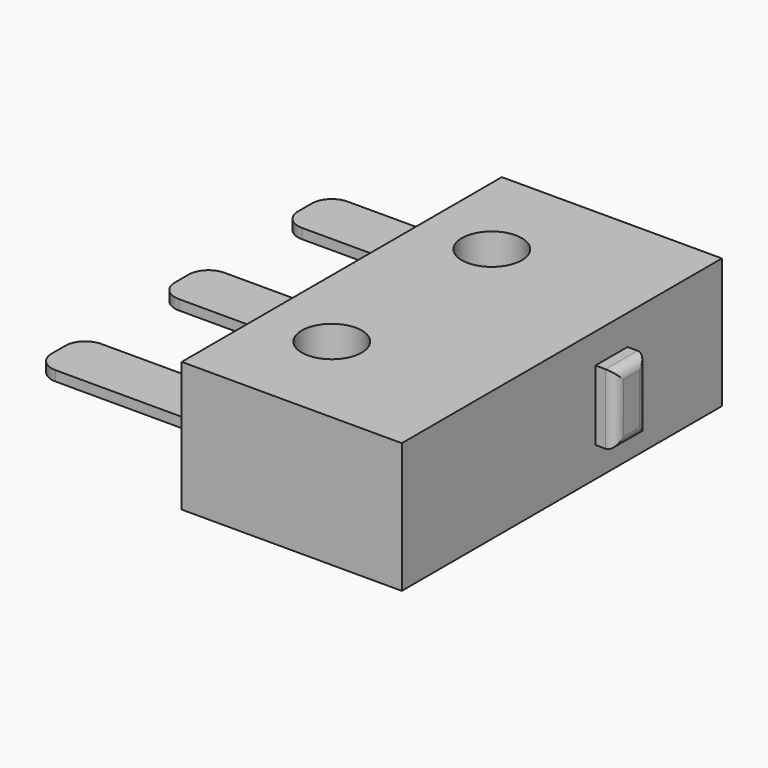
from build123d import *

# Parameters (mm, degrees)
SKETCH_W     = 11
SKETCH_H     = 20
PAD_DEPTH    = 6.5
SKETCH001_W  = 2.85
SKETCH001_H  = 0.5
PAD001_DEPTH = 8
FILLET_R     = 1
SKETCH002_W  = 2
SKETCH002_H  = 3.5
PAD002_DEPTH = 1
FILLET001_R  = 0.5
SKETCH003_R  = 1.5
POCKET_DEPTH = 6.501


with BuildPart() as part:
    # Sketch → Pad (new body)
    with BuildSketch(Plane.XY):
        Rectangle(SKETCH_W, SKETCH_H)
    extrude(amount=PAD_DEPTH)

    # Sketch001 → Pad001 (new body)
    with BuildSketch(Plane(origin=(-5.5, 0, 0), x_dir=(0, -1, 0), z_dir=(-1, 0, 0))):
        with Locations((-7.7, 3.25)):
            Rectangle(SKETCH001_W, SKETCH001_H)
        with Locations((0, 3.25)):
            Rectangle(SKETCH001_W, SKETCH001_H)
        with Locations((7.7, 3.25)):
            Rectangle(SKETCH001_W, SKETCH001_H)
    extrude(amount=PAD001_DEPTH)

    # Fillet
    fillet_edges = [part.edges().sort_by_distance(p)[0] for p in [
        (-13.5, -6.275, 3.25),
        (-13.5, -9.125, 3.25),
        (-13.5, -1.425, 3.25),
        (-13.5, 1.425, 3.25),
        (-13.5, 6.275, 3.25),
        (-13.5, 9.125, 3.25),
    ]]
    fillet(fillet_edges, radius=FILLET_R)

    # Sketch002 → Pad002 (new body)
    with BuildSketch(Plane.YZ.offset(5.5)):
        with Locations((3.1, 3.25)):
            Rectangle(SKETCH002_W, SKETCH002_H)
    extrude(amount=PAD002_DEPTH)

    # Fillet001
    fillet001_edges = [part.edges().sort_by_distance(p)[0] for p in [
        (6.5, 3.1, 5),
        (6.5, 4.1, 3.25),
        (6.5, 3.1, 1.5),
        (6.5, 2.1, 3.25),
    ]]
    fillet(fillet001_edges, radius=FILLET001_R)

    # Sketch003 → Pocket (cut, through all)
    with BuildSketch(Plane(origin=(0, 0, 0), x_dir=(1, 0, 0), z_dir=(0, 0, -1))):
        with Locations((-2, 5)):
            Circle(SKETCH003_R)
        with Locations((-2, -5)):
            Circle(SKETCH003_R)
    extrude(amount=-POCKET_DEPTH, mode=Mode.SUBTRACT)


solid = part.part
